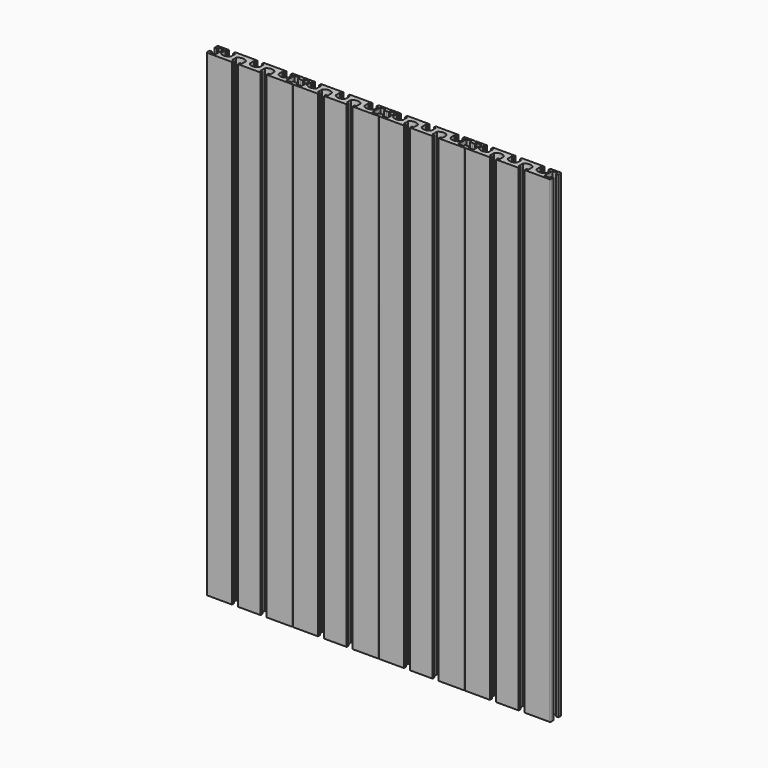
from build123d import *

# Parameters (mm, degrees)
F0_W     = 90
F0_H     = 15
F2_DEPTH = 250
F4_DEPTH = 250
F5_R     = 1


with BuildPart() as f2:
    # F0 (on Top) → F2 (new body, symmetric)
    with BuildSketch(Plane.XY):
        Rectangle(F0_W, F0_H)
    extrude(amount=F2_DEPTH, both=True)

    # F3 (on Top) → F4 (cut, symmetric)
    with BuildSketch(Plane.XY):
        with BuildLine():
            Line((3.15, 7.5), (-3.15, 7.5))
            Line((-3.15, 7.5), (-3.15, 5))
            Line((-3.15, 5), (-5.15, 5))
            Line((-5.15, 5), (-5.15, -0.5))
            ThreePointArc((-5.15, -0.5), (0, -3), (5.15, -0.5))
            Line((5.15, -0.5), (5.15, 5))
            Line((5.15, 5), (3.15, 5))
            Line((3.15, 5), (3.15, 7.5))
        make_face()
        with BuildLine():
            Line((35.15, -0.5), (35.15, 5))
            Line((35.15, 5), (33.15, 5))
            Line((33.15, 5), (33.15, 7.5))
            Line((33.15, 7.5), (26.85, 7.5))
            Line((26.85, 7.5), (26.85, 5))
            Line((26.85, 5), (24.85, 5))
            Line((24.85, 5), (24.85, -0.5))
            ThreePointArc((24.85, -0.5), (30, -3), (35.15, -0.5))
        make_face()
        with BuildLine():
            Line((-35.15, 5), (-35.15, -0.5))
            ThreePointArc((-35.15, -0.5), (-30, -3), (-24.85, -0.5))
            Line((-24.85, -0.5), (-24.85, 5))
            Line((-24.85, 5), (-26.85, 5))
            Line((-26.85, 5), (-26.85, 7.5))
            Line((-26.85, 7.5), (-33.15, 7.5))
            Line((-33.15, 7.5), (-33.15, 5))
            Line((-33.15, 5), (-35.15, 5))
        make_face()
        with BuildLine():
            Line((-18.15, -5), (-18.15, -7.5))
            Line((-18.15, -7.5), (-11.85, -7.5))
            Line((-11.85, -7.5), (-11.85, -5))
            Line((-11.85, -5), (-9.85, -5))
            Line((-9.85, -5), (-9.85, 0.5))
            ThreePointArc((-9.85, 0.5), (-15, 3), (-20.15, 0.5))
            Line((-20.15, 0.5), (-20.15, -5))
            Line((-20.15, -5), (-18.15, -5))
        make_face()
        with BuildLine():
            Line((20.15, -5), (20.15, 0.5))
            ThreePointArc((20.15, 0.5), (15, 3), (9.85, 0.5))
            Line((9.85, 0.5), (9.85, -5))
            Line((9.85, -5), (11.85, -5))
            Line((11.85, -5), (11.85, -7.5))
            Line((11.85, -7.5), (18.15, -7.5))
            Line((18.15, -7.5), (18.15, -5))
            Line((18.15, -5), (20.15, -5))
        make_face()
        Polygon((-42.5, 3.25), (-45, 3.25), (-45, -3.25), (-42.5, -3.25), (-42.5, -5.25), (-37, -5.25), (-37, 5.25), (-42.5, 5.25), align=None)
        Polygon((42.5, -3.25), (45, -3.25), (45, 3.25), (42.5, 3.25), (42.5, 5.25), (37, 5.25), (37, -5.25), (42.5, -5.25), align=None)
    extrude(amount=F4_DEPTH, both=True, mode=Mode.SUBTRACT)

    # F5
    f5_edges = [f2.edges().sort_by_distance(p)[0] for p in [
        (45, 7.5, 0),
        (45, -7.5, 0),
        (-45, 7.5, 0),
        (-45, -7.5, 0),
    ]]
    fillet(f5_edges, radius=F5_R)


with BuildPart() as f6_1:
    # F6: copy of F2
    add(f2.part.moved(Location((90, 0, 0))))


with BuildPart() as f7_1:
    # F7: copy of F6_1
    add(f6_1.part.moved(Location((90, 0, 0))))


with BuildPart() as f8_1:
    # F8: copy of F7_1
    add(f7_1.part.moved(Location((90, 0, 0))))


solid = Compound([f2.part, f6_1.part, f7_1.part, f8_1.part])
